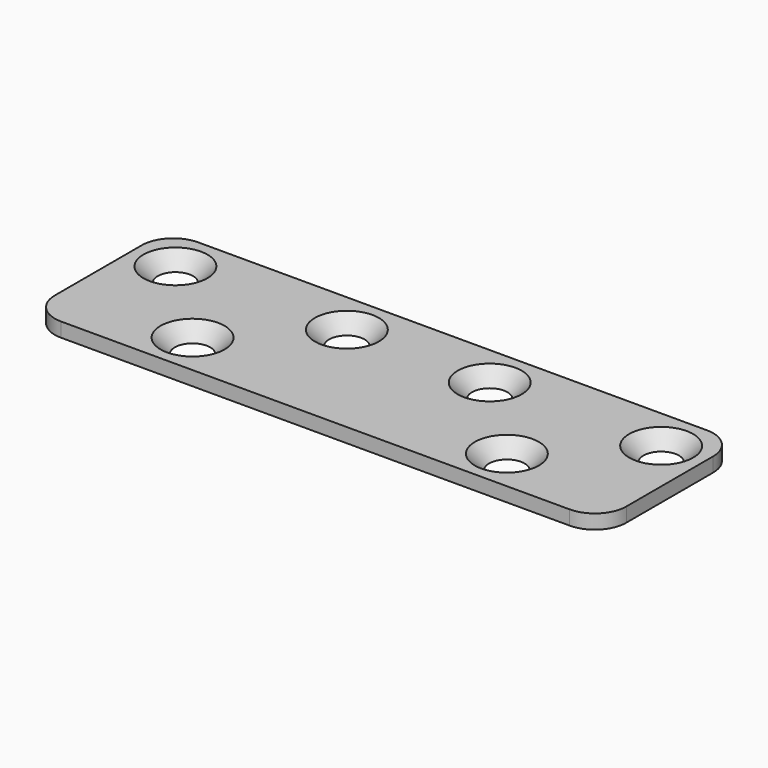
from build123d import *

# Parameters (mm, degrees)
F0_W           = 200
F0_H           = 60
F1_DEPTH       = 5
F3_D           = 11
F3_CSINK_D     = 22.4
F3_CSINK_ANGLE = 90
F4_R           = 11


with BuildPart() as f1:
    # F0 (on Top) → F1 (new body)
    with BuildSketch(Plane.XY):
        Rectangle(F0_W, F0_H)
    extrude(amount=F1_DEPTH)

    # F3 (through all)
    with Locations(Plane.XY.offset(5)):
        with Locations((-85, 15), (-25, 15), (25, 15), (-55, -15), (55, -15), (85, 15)):
            CounterSinkHole(F3_D / 2, F3_CSINK_D / 2, counter_sink_angle=F3_CSINK_ANGLE)

    # F4
    f4_edges = [f1.edges().sort_by_distance(p)[0] for p in [
        (-100, 30, 2.5),
        (-100, -30, 2.5),
        (100, -30, 2.5),
        (100, 30, 2.5),
    ]]
    fillet(f4_edges, radius=F4_R)


solid = f1.part
